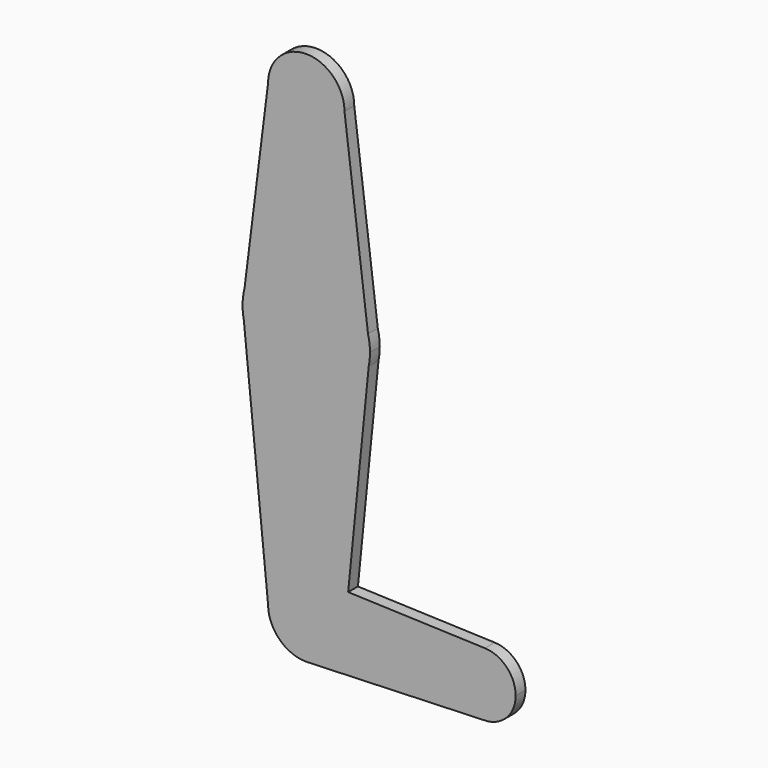
from build123d import *

# Parameters (mm, degrees)
F3_DEPTH = 3.048


with BuildPart() as f3:
    # F1 (on Front) → F3 (new body)
    with BuildSketch(Plane.XZ):
        with BuildLine():
            Line((0.6805050725, 9.5006598637), (0, 9.525))
            ThreePointArc((0, 9.525), (-6.7351920908, 6.7351920908), (-9.525, 0))
            ThreePointArc((-9.525, 0), (-6.7351920908, -6.7351920908), (0, -9.525))
            Line((0, -9.525), (0.682682231, -9.5005036694))
            ThreePointArc((0.682682231, -9.5005036694), (6.9723802697, -6.4893403651), (9.525, 0))
            ThreePointArc((9.525, 0), (6.9716366735, 6.4901392198), (0.6805050725, 9.5006598637))
        make_face()
        with BuildLine():
            ThreePointArc((-9.525, 0), (-6.7351920908, 6.7351920908), (0, 9.525))
            ThreePointArc((0, 9.525), (0.3404701147, 9.518913021), (0.6805050725, 9.5006598637))
            Line((0.6805050725, 9.5006598637), (10.4401579027, 9.1515790274))
            Line((10.4401579027, 9.1515790274), (15.5606435644, 60.3564356436))
            ThreePointArc((15.5606435644, 60.3564356436), (0, 47.625), (-15.5606435644, 60.3564356436))
            Line((-15.5606435644, 60.3564356436), (-9.525, 0))
        make_face()
        with BuildLine():
            Line((10.4401579027, 9.1515790274), (0.6805050725, 9.5006598637))
            ThreePointArc((0.6805050725, 9.5006598637), (6.9716366735, 6.4901392198), (9.525, 0))
            Line((9.525, 0), (10.4401579027, 9.1515790274))
        make_face()
        with BuildLine():
            Line((0.682682231, -9.5005036694), (0, -9.525))
            ThreePointArc((0, -9.525), (0.3415607921, -9.5188739473), (0.682682231, -9.5005036694))
        make_face()
        with BuildLine():
            Line((-15.875, 63.5), (-15.5606435644, 60.3564356436))
            ThreePointArc((-15.5606435644, 60.3564356436), (0, 47.625), (15.5606435644, 60.3564356436))
            Line((15.5606435644, 60.3564356436), (15.875, 63.5))
            Line((15.875, 63.5), (15.3865374302, 67.4076963685))
            ThreePointArc((15.3865374302, 67.4076963685), (0, 79.375), (-15.3865374302, 67.4076963685))
            Line((-15.3865374302, 67.4076963685), (-15.875, 63.5))
        make_face()
        with BuildLine():
            ThreePointArc((-15.875, 63.5), (-15.7962153946, 61.9203784605), (-15.5606435644, 60.3564356436))
            Line((-15.5606435644, 60.3564356436), (-15.875, 63.5))
        make_face()
        with BuildLine():
            Line((10.4401579027, 9.1515790274), (9.525, 0))
            ThreePointArc((9.525, 0), (6.9723802697, -6.4893403651), (0.682682231, -9.5005036694))
            Line((0.682682231, -9.5005036694), (44.2416481674, -7.9375))
            ThreePointArc((44.2416481674, -7.9375), (36.3054163893, 0.1418852176), (44.5253732629, 7.9324275175))
            Line((44.5253732629, 7.9324275175), (10.4401579027, 9.1515790274))
        make_face()
        with BuildLine():
            ThreePointArc((-15.3865374302, 67.4076963685), (-15.752411033, 65.4690534903), (-15.875, 63.5))
            Line((-15.875, 63.5), (-15.3865374302, 67.4076963685))
        make_face()
        with BuildLine():
            Line((15.875, 63.5), (15.5606435644, 60.3564356436))
            ThreePointArc((15.5606435644, 60.3564356436), (15.7962153946, 61.9203784605), (15.875, 63.5))
        make_face()
        with BuildLine():
            ThreePointArc((52.1791481674, 0), (49.9537394742, 5.5114353078), (44.5253732629, 7.9324275175))
            ThreePointArc((44.5253732629, 7.9324275175), (36.3054163893, 0.1418852176), (44.2416481674, -7.9375))
            ThreePointArc((44.2416481674, -7.9375), (49.854308243, -5.6126600757), (52.1791481674, 0))
        make_face()
        with BuildLine():
            Line((-9.525, 114.2999455333), (-15.3865374302, 67.4076963685))
            ThreePointArc((-15.3865374302, 67.4076963685), (0, 79.375), (15.3865374302, 67.4076963685))
            Line((15.3865374302, 67.4076963685), (9.525, 114.2999455333))
            ThreePointArc((9.525, 114.2999455333), (0, 104.7749455333), (-9.525, 114.2999455333))
        make_face()
        with BuildLine():
            Line((15.3865374302, 67.4076963685), (15.875, 63.5))
            ThreePointArc((15.875, 63.5), (15.752411033, 65.4690534903), (15.3865374302, 67.4076963685))
        make_face()
        with BuildLine():
            ThreePointArc((9.525, 114.2999455333), (0, 123.8249455333), (-9.525, 114.2999455333))
            ThreePointArc((-9.525, 114.2999455333), (0, 104.7749455333), (9.525, 114.2999455333))
        make_face()
    extrude(amount=F3_DEPTH)


solid = f3.part
